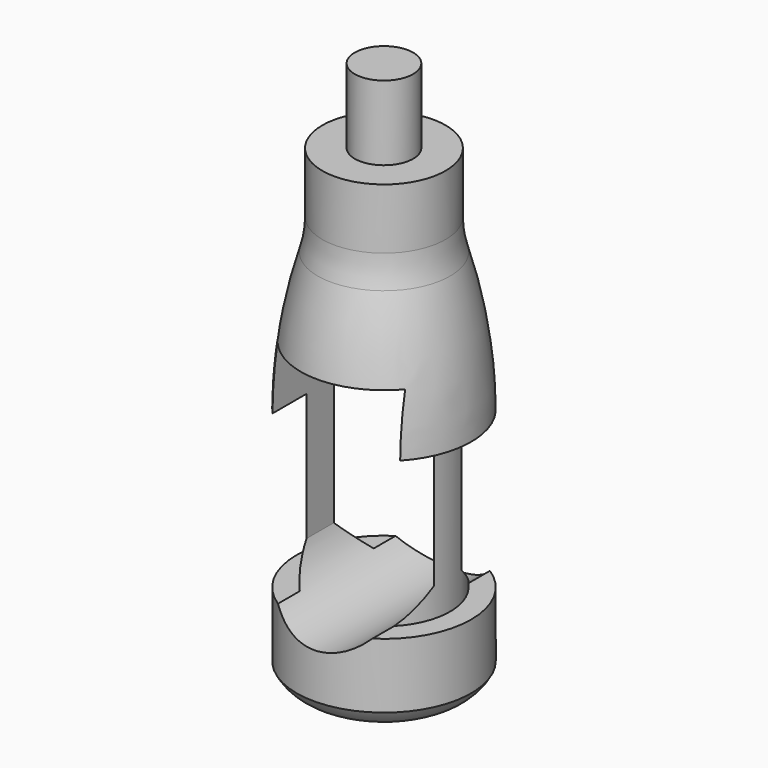
from build123d import *

# Parameters (mm, degrees)
F2_W     = 36.406454
F2_H     = 53.516602
F3_DEPTH = 1270


with BuildPart() as f1:
    # F0 (on Front) → F1 (revolve)
    with BuildSketch(Plane.XZ):
        with BuildLine():
            Line((0, 78.068353), (-8.323188, 78.068353))
            Line((-8.323188, 78.068353), (-8.323188, 56.810547))
            Line((-8.323188, 56.810547), (-17.581202, 56.810547))
            Line((-17.581202, 56.810547), (-17.581202, 39.556973))
            ThreePointArc((-17.581202, 39.556973), (-17.907629, 35.12942), (-18.879851, 30.797612))
            ThreePointArc((-18.879851, 30.797612), (-23.314963, 11.196756), (-24.897477, -8.837201))
            Line((-24.897477, -8.837201), (-18.84366, -8.837201))
            Line((-18.84366, -8.837201), (-18.84366, -53.444006))
            Line((-18.84366, -53.444006), (-24.897477, -53.444006))
            Line((-24.897477, -53.444006), (-24.897477, -71.960032))
            ThreePointArc((-24.897477, -71.960032), (-20.643419, -76.487466), (-14.635469, -78.068353))
            ThreePointArc((-14.635469, -78.068353), (-9.287476, -76.339502), (-5.764666, -71.960032))
            ThreePointArc((-5.764666, -71.960032), (-2.882333, -70.022332), (0, -71.960032))
            Line((0, -71.960032), (0, 78.068353))
        make_face()
    revolve(axis=Axis((0, 0, 3.054161), (0, 0, -1)))

    # F2 (on Front) → F3 (cut, symmetric)
    with BuildSketch(Plane.XZ):
        with Locations((0, -18.408196)):
            Rectangle(F2_W, F2_H)
        with BuildLine():
            ThreePointArc((-18.203227, -45.166497), (0, -59.103642), (18.203227, -45.166497))
            Line((18.203227, -45.166497), (-18.203227, -45.166497))
        make_face()
    extrude(amount=F3_DEPTH, both=True, mode=Mode.SUBTRACT)


solid = f1.part
